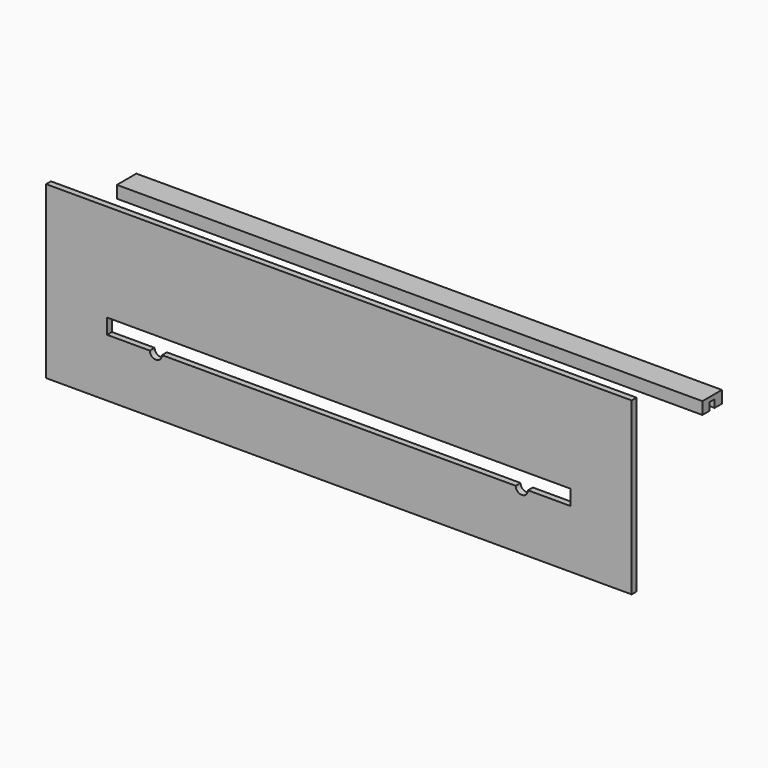
from build123d import *

# Parameters (mm, degrees)
F0_W     = 609.6
F0_H     = 177.8
F1_DEPTH = 6.35
F3_DEPTH = 6.35
F4_W     = 609.6
F4_H     = 25.4
F5_DEPTH = 12.7
F6_W     = 609.6
F6_H     = 6.35
F7_DEPTH = 8.001


with BuildPart() as f1:
    # F0 (on Front) → F1 (new body)
    with BuildSketch(Plane.XZ):
        with Locations((21.043397, -11.938087)):
            Rectangle(F0_W, F0_H)
    extrude(amount=F1_DEPTH)

    # F2 (on face) → F3 (cut)
    with BuildSketch(Plane.XZ.offset(6.35)):
        with BuildLine():
            Line((262.343397, -24.638087), (-220.256603, -24.638087))
            Line((-220.256603, -24.638087), (-220.256603, -40.513087))
            Line((-220.256603, -40.513087), (-175.806603, -40.513087))
            ThreePointArc((-175.806603, -40.513087), (-169.456603, -46.863087), (-163.106603, -40.513087))
            Line((-163.106603, -40.513087), (205.193397, -40.513087))
            ThreePointArc((205.193397, -40.513087), (211.543397, -46.863087), (217.893397, -40.513087))
            Line((217.893397, -40.513087), (262.343397, -40.513087))
            Line((262.343397, -40.513087), (262.343397, -24.638087))
        make_face()
    extrude(amount=-F3_DEPTH, mode=Mode.SUBTRACT)


with BuildPart() as f5:
    # F4 (on Top) → F5 (new body)
    with BuildSketch(Plane.XY):
        with Locations((-10.323942, 137.690149)):
            Rectangle(F4_W, F4_H)
    extrude(amount=F5_DEPTH)

    # F6 (on face) → F7 (cut)
    with BuildSketch(Plane(origin=(0, 0, 0), x_dir=(1, 0, 0), z_dir=(0, 0, -1))):
        with Locations((-10.323942, -137.690149)):
            Rectangle(F6_W, F6_H)
    extrude(amount=-F7_DEPTH, mode=Mode.SUBTRACT)


solid = Compound([f1.part, f5.part])
